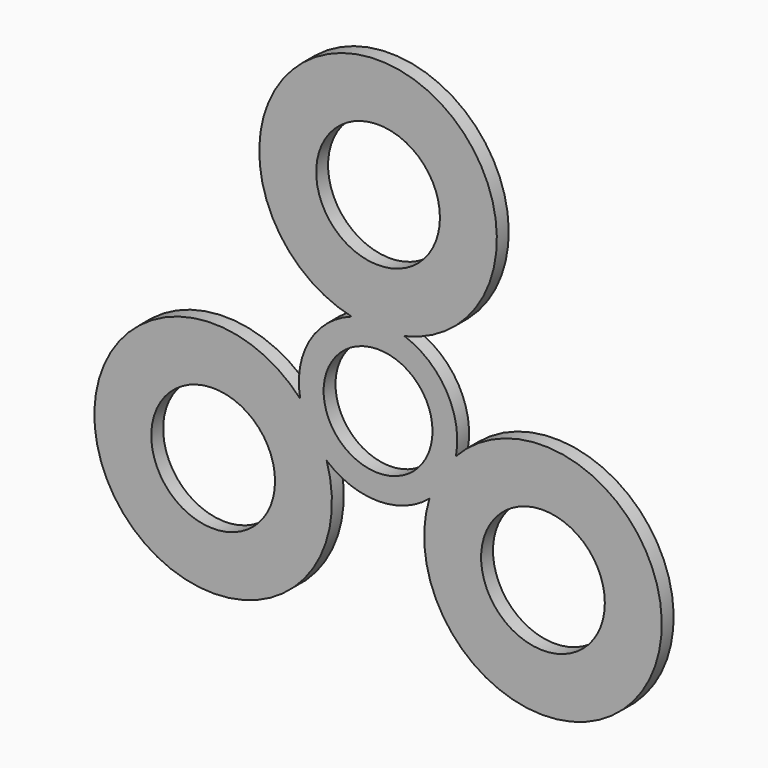
from build123d import *

# Parameters (mm, degrees)
F0_R     = 12.5
F0_R_2   = 11
F1_DEPTH = 3


with BuildPart() as f1:
    # F0 (on Front) → F1 (new body)
    with BuildSketch(Plane.XZ):
        with BuildLine():
            ThreePointArc((5.355234, 15.077184), (0, 62.472086), (-5.355234, 15.077184))
            ThreePointArc((-5.355234, 15.077184), (-13.856406, 8), (-15.734841, -2.900823))
            ThreePointArc((-15.734841, -2.900823), (-54.102414, -31.236043), (-10.379607, -12.176361))
            ThreePointArc((-10.379607, -12.176361), (0, -16), (10.379607, -12.176361))
            ThreePointArc((10.379607, -12.176361), (54.102414, -31.236043), (15.734841, -2.900823))
            ThreePointArc((15.734841, -2.900823), (13.856406, 8), (5.355234, 15.077184))
        make_face()
        with Locations((-33.317804, -19.236043)):
            Circle(F0_R, mode=Mode.SUBTRACT)
        with Locations((33.317804, -19.236043)):
            Circle(F0_R, mode=Mode.SUBTRACT)
        Circle(F0_R_2, mode=Mode.SUBTRACT)
        with Locations((0, 38.472086)):
            Circle(F0_R, mode=Mode.SUBTRACT)
    extrude(amount=F1_DEPTH)


solid = f1.part
